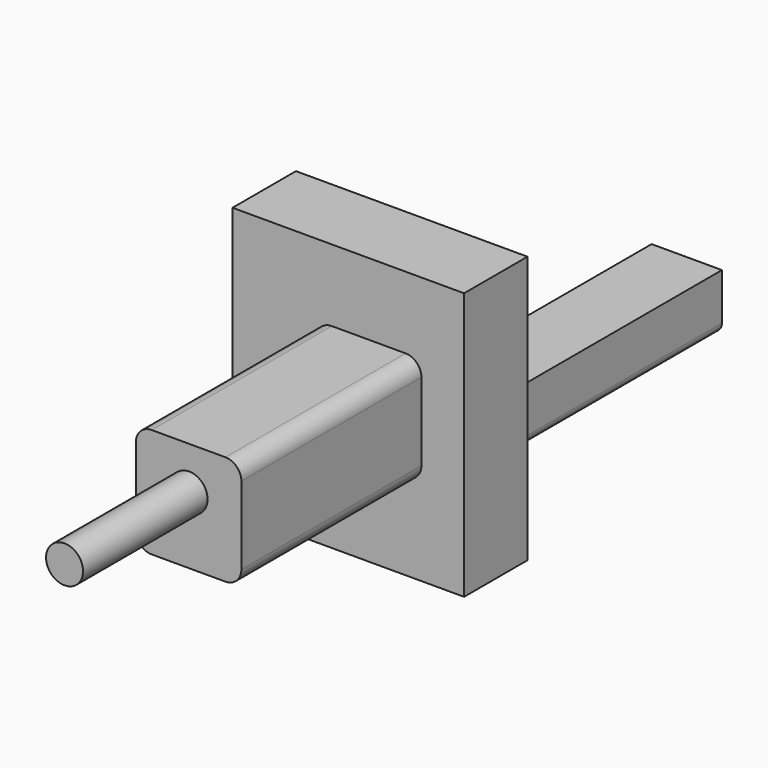
from build123d import *

# Parameters (mm, degrees)
F0_W     = 73.031641
F0_H     = 84.304981
F1_DEPTH = 25
F2_W     = 33.280658
F2_H     = 34.5481
F3_DEPTH = 71
F4_R     = 5
F5_R     = 5.836703
F6_DEPTH = 49.1
F7_W     = 22.180748
F7_H     = 17.729454
F8_DEPTH = 90.629987
F9_R     = 3


with BuildPart() as f1:
    # F0 (on Front) → F1 (new body)
    with BuildSketch(Plane.XZ):
        with Locations((23.036827, 2.042271)):
            Rectangle(F0_W, F0_H)
    extrude(amount=F1_DEPTH)

    # F2 (on face) → F3 (join)
    with BuildSketch(Plane.XZ.offset(25)):
        with Locations((29.459043, 4.238339)):
            Rectangle(F2_W, F2_H)
    extrude(amount=F3_DEPTH)

    # F4
    f4_edges = [f1.edges().sort_by_distance(p)[0] for p in [
        (46.099372, -60.5, -13.035711),
        (46.099372, -60.5, 21.512389),
        (12.818714, -60.5, 21.512389),
        (12.818714, -60.5, -13.035711),
    ]]
    fillet(f4_edges, radius=F4_R)

    # F5 (on face) → F6 (join)
    with BuildSketch(Plane.XZ.offset(96)):
        with Locations((29.61137, 8.004888)):
            Circle(F5_R)
    extrude(amount=F6_DEPTH)

    # F7 (on face) → F8 (join)
    with BuildSketch(Plane(origin=(0, 0, 0), x_dir=(-1, 0, 0), z_dir=(0, 1, 0))):
        with Locations((-37.29094, -8.864727)):
            Rectangle(F7_W, F7_H)
    extrude(amount=F8_DEPTH)

    # F9
    f9_edges = [f1.edges().sort_by_distance(p)[0] for p in [
        (26.200566, 45.314994, -17.729454),
        (48.381314, 45.314994, -17.729454),
    ]]
    fillet(f9_edges, radius=F9_R)


solid = f1.part
